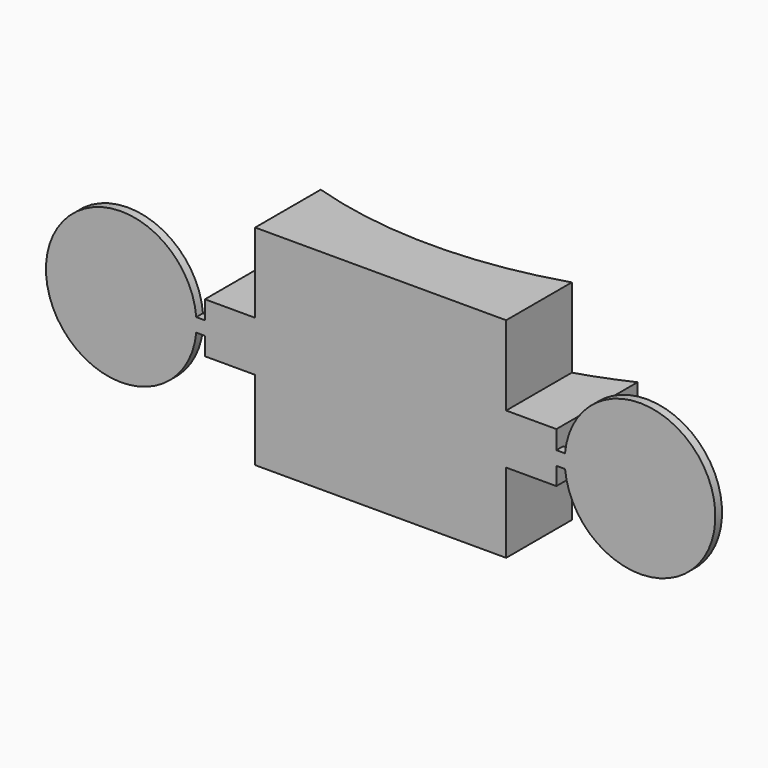
from build123d import *

# Parameters (mm, degrees)
F1_DEPTH  = 12.5
F3_DEPTH  = 25
F4_R      = 9.15
F5_DEPTH  = 55
F6_R      = 9.05
F7_DEPTH  = 52.5
F9_DEPTH  = 3
F11_DEPTH = 57.501
F13_DEPTH = 1


with BuildPart() as f1:
    # F0 (on Top) → F1 (new body, symmetric)
    with BuildSketch(Plane.XY):
        with BuildLine():
            ThreePointArc((50, 0), (0, -50), (-50, 0))
            Line((-50, 0), (-55, 0))
            ThreePointArc((-55, 0), (0, -55), (55, 0))
            Line((55, 0), (50, 0))
        make_face()
    extrude(amount=F1_DEPTH, both=True)

    # F2 (on face) → F3 (join)
    with BuildSketch(Plane.XY.offset(12.5)):
        with BuildLine():
            ThreePointArc((55, 0), (0, -55), (-55, 0))
            Line((-55, 0), (-55, -57.5))
            Line((-55, -57.5), (0, -57.5))
            Line((0, -57.5), (55, -57.5))
            Line((55, -57.5), (55, 0))
        make_face()
    extrude(amount=-F3_DEPTH)

    # F4 (on Front) → F5 (cut)
    with BuildSketch(Plane.XZ):
        Circle(F4_R)
    extrude(amount=F5_DEPTH, mode=Mode.SUBTRACT)

    # F6 (on Right) → F7 (cut, symmetric)
    with BuildSketch(Plane.YZ):
        with Locations((-11, 0)):
            Circle(F6_R)
    extrude(amount=F7_DEPTH, both=True, mode=Mode.SUBTRACT)

    # F8 (on face) → F9 (join)
    with BuildSketch(Plane.XZ.offset(57.5)):
        with BuildLine():
            Line((55, -1.825145), (56.187007, -1.825145))
            ThreePointArc((56.187007, -1.825145), (73.996764, 0.241309), (56.101841, 1.350101))
            Line((56.101841, 1.350101), (55, 1.350101))
            Line((55, 1.350101), (55, -1.825145))
        make_face()
        with BuildLine():
            Line((-55, 0.589209), (-56.019308, 0.589209))
            ThreePointArc((-56.019308, 0.589209), (-73.999691, -0.074534), (-56.010781, -0.440385))
            Line((-56.010781, -0.440385), (-55, -0.440385))
            Line((-55, -0.440385), (-55, 0.589209))
        make_face()
        with BuildLine():
            Line((26.665892, -12.5), (26.665892, -13.538735))
            ThreePointArc((26.665892, -13.538735), (27.491135, -31.499996), (28.35176, -13.540396))
            Line((28.35176, -13.540396), (28.35176, -12.5))
            Line((28.35176, -12.5), (26.665892, -12.5))
        make_face()
        with BuildLine():
            Line((-28.294771, -12.5), (-28.294771, -13.535161))
            ThreePointArc((-28.294771, -13.535161), (-27.521055, -31.499975), (-26.663293, -13.538978))
            Line((-26.663293, -13.538978), (-26.663293, -12.5))
            Line((-26.663293, -12.5), (-28.294771, -12.5))
        make_face()
        with BuildLine():
            Line((-26.327094, 12.5), (-26.327094, 13.576756))
            ThreePointArc((-26.327094, 13.576756), (-27.667739, 31.498437), (-28.339533, 13.539242))
            Line((-28.339533, 13.539242), (-28.339533, 12.5))
            Line((-28.339533, 12.5), (-26.327094, 12.5))
        make_face()
        with BuildLine():
            Line((28.639116, 12.5), (28.639116, 13.572379))
            ThreePointArc((28.639116, 13.572379), (27.368028, 31.499032), (26.623167, 13.542815))
            Line((26.623167, 13.542815), (26.623167, 12.5))
            Line((26.623167, 12.5), (28.639116, 12.5))
        make_face()
    extrude(amount=-F9_DEPTH)

    # F10 (on face) → F11 (cut, through all)
    with BuildSketch(Plane.XZ.offset(57.5)):
        Polygon((-15, 3), (-15, 12.5), (-15, 43.200534), (-80.149591, 43.200534), (-80.149591, -41.894257), (-15, -41.894257), (-15, -12.5), (-15, -3), (-21, -3), (-21, 0), (-21, 3), align=None)
        Polygon((15, 42.100117), (15, 12.5), (15, 3), (21, 3), (21, 0), (21, -3), (15, -3), (15, -12.5), (15, -47.119375), (79.776369, -47.119375), (79.776369, 42.100117), align=None)
    extrude(amount=-F11_DEPTH, mode=Mode.SUBTRACT)

    # F12 (on face) → F13 (join)
    with BuildSketch(Plane.XZ.offset(57.5)):
        with BuildLine():
            Line((-21, 0.785101), (-22.034309, 0.785101))
            ThreePointArc((-22.034309, 0.785101), (-39.999944, 0.031742), (-22.04007, -0.848323))
            Line((-22.04007, -0.848323), (-21, -0.848323))
            Line((-21, -0.848323), (-21, 0.785101))
        make_face()
        with BuildLine():
            Line((21, -0.86237), (22.041411, -0.86237))
            ThreePointArc((22.041411, -0.86237), (39.99991, 0.040222), (22.034061, 0.782262))
            Line((22.034061, 0.782262), (21, 0.782262))
            Line((21, 0.782262), (21, -0.86237))
        make_face()
    extrude(amount=-F13_DEPTH)


solid = f1.part
